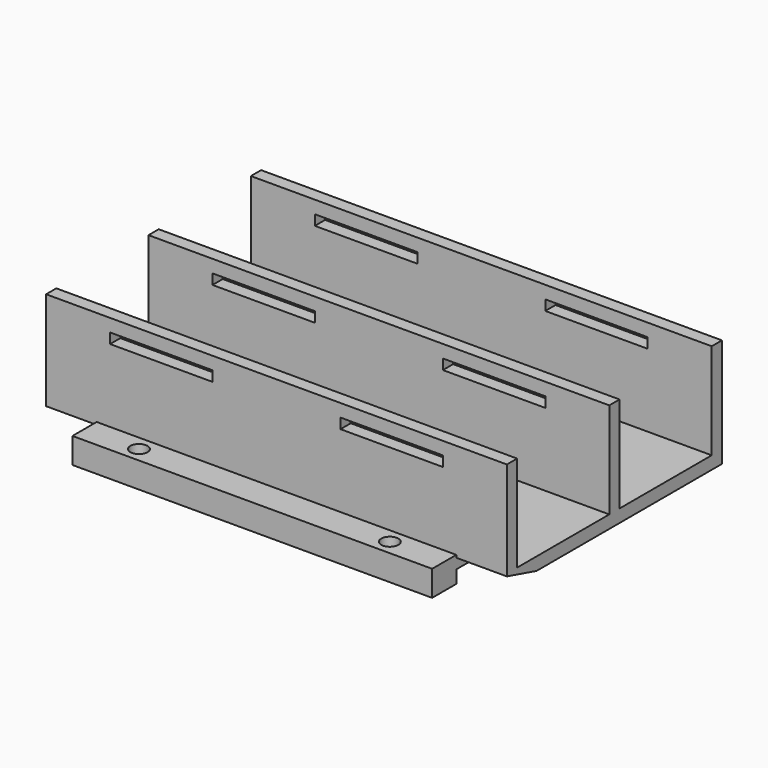
from build123d import *

# Parameters (mm, degrees)
PAD_DEPTH           = 45.72
PAD_DEPTH_BACK      = 45.72
SKETCH001_W         = 2.032
SKETCH001_H         = 20.32
POCKET_DEPTH        = 53.341
SKETCH002_W         = 6
SKETCH002_H         = 71.374
PAD001_DEPTH        = 2.54
PAD001_DEPTH_BACK   = 2.54
SKETCH003_R         = 1.7
HOLE_DEPTH          = 5.081
SKETCH004_W         = 6
SKETCH004_H         = 71.374
PAD002_DEPTH        = 7.62
HOLE001_D           = 3.4
HOLE001_DEPTH       = 24.892
HOLE001_CBORE_D     = 6.1
HOLE001_CBORE_DEPTH = 3.302
CHAMFER_SIZE2       = 7.366
CHAMFER_SIZE        = 2.032


with BuildPart() as part:
    # Sketch → Pad (new body, two sides)
    with BuildSketch(Plane.YZ) as pad_sk:
        Polygon((-26.67, 21.59), (-26.67, 0), (26.67, 0), (26.67, 21.59), (24.13, 21.59), (24.13, 2.54), (1.27, 2.54), (1.27, 21.59), (-1.27, 21.59), (-1.27, 2.54), (-24.13, 2.54), (-24.13, 21.59), align=None)
    extrude(amount=PAD_DEPTH)
    extrude(pad_sk.sketch, amount=-PAD_DEPTH_BACK)

    # Sketch001 (on Face1 of Pad) → Pocket (cut, through all)
    with BuildSketch(Plane(origin=(0, -26.67, 0), x_dir=(0, 0, -1), z_dir=(0, -1, 0))):
        with Locations((-18.034, -22.86)):
            Rectangle(SKETCH001_W, SKETCH001_H)
        with Locations((-18.034, 22.86)):
            Rectangle(SKETCH001_W, SKETCH001_H)
    extrude(amount=-POCKET_DEPTH, mode=Mode.SUBTRACT)

    # Sketch002 (on Face5 of Pocket) → Pad001 (join, two sides)
    with BuildSketch(Plane.YX) as pad001_sk:
        with Locations((-29.67, 0)):
            Rectangle(SKETCH002_W, SKETCH002_H)
    extrude(amount=-PAD001_DEPTH)
    extrude(pad001_sk.sketch, amount=PAD001_DEPTH_BACK)

    # Sketch003 (on Face5 of Pad001) → Hole (cut, through all)
    with BuildSketch(Plane(origin=(0, 0, 2.54), x_dir=(0, -1, 0), z_dir=(0, 0, 1))):
        with Locations((29.67, -24.892)):
            Circle(SKETCH003_R)
        with Locations((29.67, 24.892)):
            Circle(SKETCH003_R)
    extrude(amount=-HOLE_DEPTH, mode=Mode.SUBTRACT)

    # Sketch004 (on Face3 of Hole) → Pad002 (join)
    with BuildSketch(Plane.YX):
        with Locations((13.51, 0)):
            Rectangle(SKETCH004_W, SKETCH004_H)
    extrude(amount=PAD002_DEPTH)

    # Hole001
    with Locations(Plane(origin=(0, 0, 2.54), x_dir=(0, -1, 0), z_dir=(0, 0, 1))):
        with Locations((-13.51, 24.892), (-13.51, -24.892)):
            CounterBoreHole(HOLE001_D / 2, HOLE001_CBORE_D / 2, HOLE001_CBORE_DEPTH, depth=HOLE001_DEPTH)

    # Chamfer
    chamfer_edges = [part.edges().sort_by_distance(p)[0] for p in [
        (-40.7035, -26.67, 0),
        (40.7035, -26.67, 0),
    ]]
    chamfer_side = part.faces().sort_by_distance((0, -26.67, 11.455103))[0]
    chamfer(chamfer_edges, length=CHAMFER_SIZE, length2=CHAMFER_SIZE2, reference=chamfer_side)


solid = part.part
